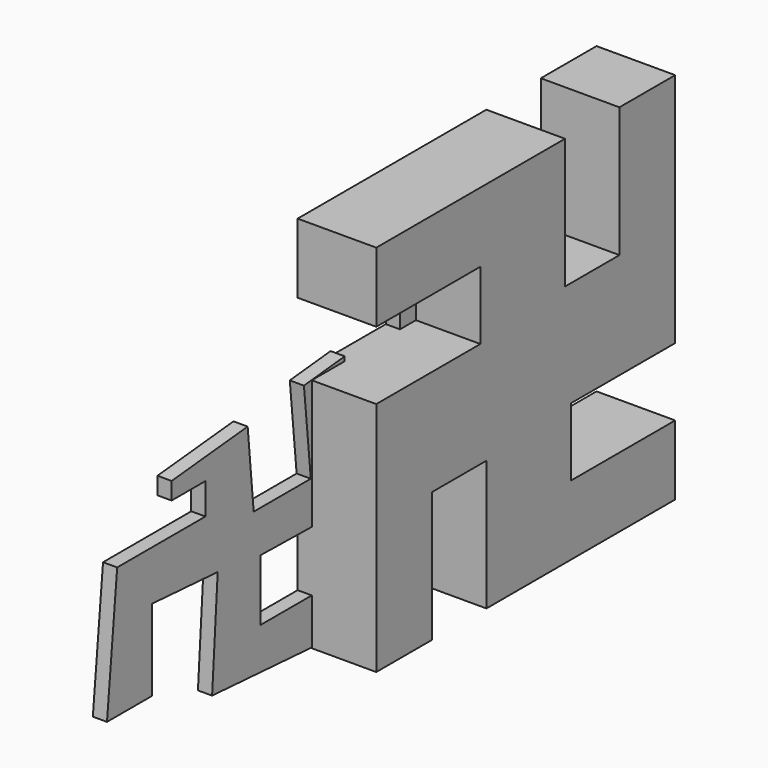
from build123d import *

# Parameters (mm, degrees)
F2_DEPTH = 25.4
F3_DEPTH = 25.4
F5_DEPTH = 141.1097


with BuildPart() as f2:
    # F0 (on Right) → F2 (new body)
    with BuildSketch(Plane.YZ):
        Polygon((-137.349337, 36.220565), (-137.349337, -120.871961), (-103.925407, -120.871961), (-103.925407, -24.323165), (-34.545362, -24.323165), (-34.545362, -120.871961), (137.349337, -120.871961), (137.349337, -85.929275), (28.157294, -85.929275), (28.752163, -23.0546), (137.349337, -23.0546), (137.349337, 120.871961), (104.565293, 120.871961), (104.565293, 27.17904), (21.283209, 26.600689), (21.283209, 120.871961), (-137.349337, 120.871961), (-137.349337, 79.767376), (-21.679759, 79.767376), (-21.679759, 36.220565), align=None)
    extrude(amount=F2_DEPTH)


with BuildPart() as f3:
    # F1 (on Right) → F3 (new body)
    with BuildSketch(Plane.YZ):
        Polygon((-479.050279, 73.436208), (-649.549842, 56.859858), (-649.549842, 25.887281), (-573.772311, 25.887281), (-573.772311, -30.119002), (-771.636009, -30.119002), (-794.489622, -264.856696), (-694.065072, -264.856696), (-694.065072, -119.178703), (-546.167173, -128.951918), (-558.73704, -319.171488), (-270.06042, -338.247478), (-270.06042, -251.700848), (-450.039864, -251.700848), (-450.039864, -141.553611), (-261.296423, -144.76271), (-261.296423, 95.928185), (-352.754235, 86.779982), (-337.418318, -66.538586), (-465.441615, -66.538586), align=None)
    extrude(amount=F3_DEPTH)


with BuildPart() as f5:
    # F4 (on Right) → F5 (new body)
    with BuildSketch(Plane.YZ):
        Polygon((-335.183496, 88.093936), (-335.183496, -335.183496), (-210.197985, -335.183496), (-210.197985, -101.705164), (-88.093936, -101.705164), (-88.093936, -335.183496), (335.183496, -335.183496), (335.183496, -210.197985), (101.705164, -210.197985), (101.705164, -88.093936), (335.183496, -88.093936), (335.183496, 335.183496), (210.197985, 335.183496), (210.197985, 101.705164), (88.093936, 101.705164), (88.093936, 335.183496), (-335.183496, 335.183496), (-335.183496, 210.197985), (-101.705164, 210.197985), (-101.705164, 88.093936), align=None)
    extrude(amount=F5_DEPTH)


solid = Compound([f2.part, f3.part, f5.part])
